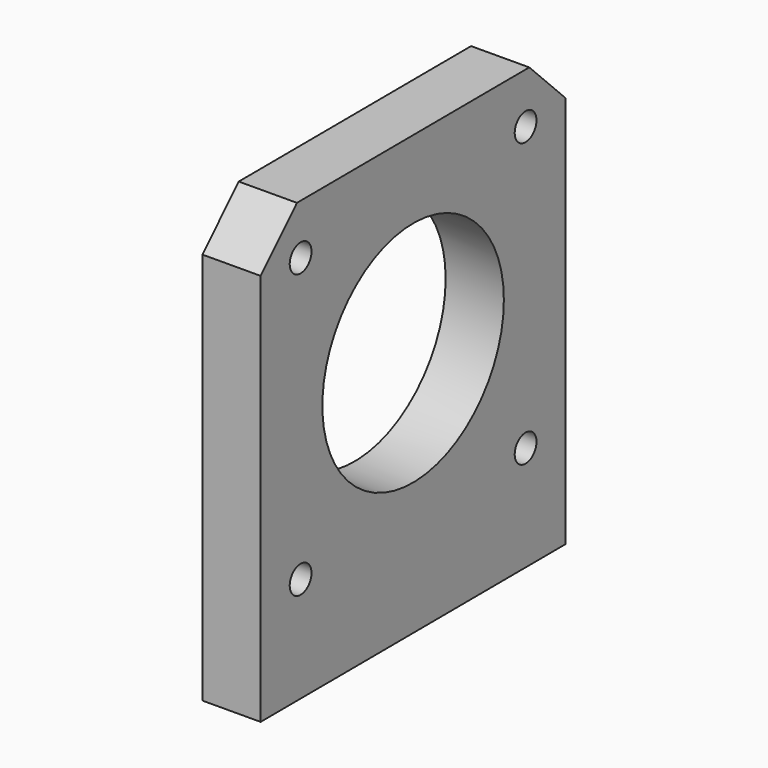
from build123d import *

# Parameters (mm, degrees)
SKETCH_R             = 12.5
SKETCH_R_2           = 1.5
PAD_DEPTH            = 6.35
SKETCH011_R          = 1.25
HOLE_DEPTH           = 15
HOLE_TIPS_R          = 1.25
BODY_PLACEMENT_ANGLE = 0.285111


with BuildPart() as part:
    # Sketch → Pad (new body)
    with BuildSketch(Plane.YZ):
        Polygon((-21, -27), (21, -27), (21, 16), (16, 21), (-16, 21), (-21, 16), align=None)
        Circle(SKETCH_R, mode=Mode.SUBTRACT)
        with Locations((15.495, 15.495)):
            Circle(SKETCH_R_2, mode=Mode.SUBTRACT)
        with Locations((15.495, -15.495)):
            Circle(SKETCH_R_2, mode=Mode.SUBTRACT)
        with Locations((-15.495, -15.495)):
            Circle(SKETCH_R_2, mode=Mode.SUBTRACT)
        with Locations((-15.495, 15.495)):
            Circle(SKETCH_R_2, mode=Mode.SUBTRACT)
    extrude(amount=PAD_DEPTH)

    # Sketch011 (on Face4 of Pad) → Hole (cut)
    with BuildSketch(Plane(origin=(0, 0, -27), x_dir=(1, 0, 0), z_dir=(0, 0, -1))):
        with Locations((3.175, 10)):
            Circle(SKETCH011_R)
        with Locations((3.175, -10)):
            Circle(SKETCH011_R)
    extrude(amount=-HOLE_DEPTH, mode=Mode.SUBTRACT)

    # Hole tips → Hole tip 1 section 0
    with BuildSketch(Plane(origin=(0, 0, -12), x_dir=(1, 0, 0), z_dir=(0, 0, -1)), mode=Mode.PRIVATE) as hole_tip_1_s0:
        with Locations((3.175, 10)):
            Circle(HOLE_TIPS_R)
    loft([hole_tip_1_s0.sketch, Vertex(3.175, -10, -11.248924)], mode=Mode.SUBTRACT)

    # Hole tips → Hole tip 2 section 0
    with BuildSketch(Plane(origin=(0, 0, -12), x_dir=(1, 0, 0), z_dir=(0, 0, -1)), mode=Mode.PRIVATE) as hole_tip_2_s0:
        with Locations((3.175, -10)):
            Circle(HOLE_TIPS_R)
    loft([hole_tip_2_s0.sketch, Vertex(3.175, 10, -11.248924)], mode=Mode.SUBTRACT)


with BuildPart() as part_1:
    # Body placement: moved
    add(part.part.moved(Location((89.750311, 49.797284, 37.128014))).rotate(Axis((89.750311, 49.797284, 37.128014), (0, 0, 1)), BODY_PLACEMENT_ANGLE))


solid = part_1.part
